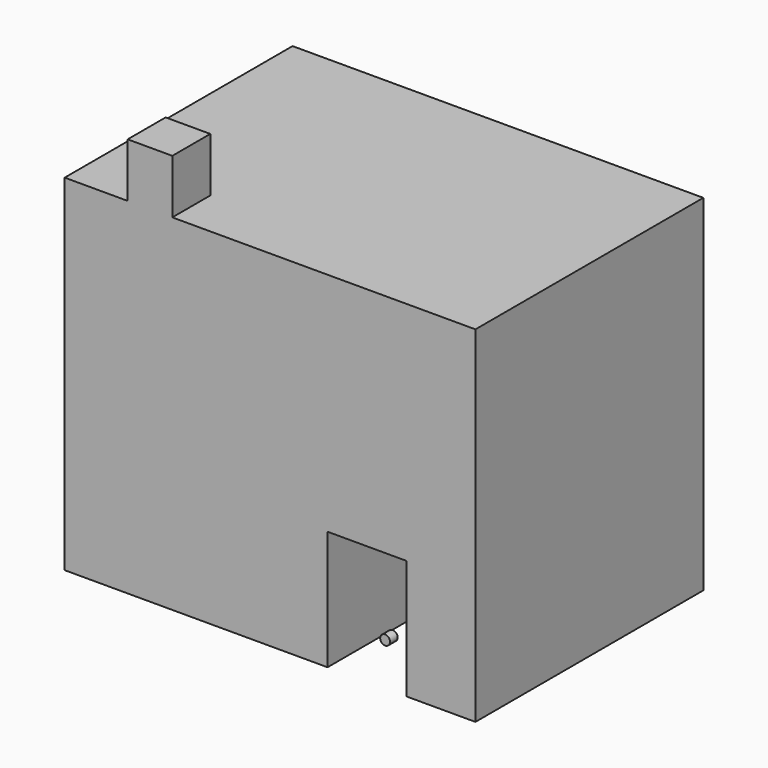
from build123d import *

# Parameters (mm, degrees)
F1_DEPTH = 76.2
F0_W     = 11.9476383552
F0_H     = 14.4938491285
F2_DEPTH = 12.7
F3_R     = 1.3138879376
F4_DEPTH = 2.54
F5_W     = 21.1531911045
F5_H     = 31.9256559014
F6_DEPTH = 25.4


with BuildPart() as f1:
    # F0 (on Front) → F1 (new body)
    with BuildSketch(Plane.XZ):
        Polygon((-40.4456928372, 42.6981188357), (-40.4456928372, -49.7491806746), (29.8690963537, -49.7491806746), (29.8690963537, -17.8235247731), (51.0222874582, -17.8235247731), (51.0222874582, -49.7491806746), (69.4333985448, -49.7491806746), (69.4333985448, 42.6981188357), (-11.6538433358, 42.6981188357), (-23.601481691, 42.6981188357), align=None)
    extrude(amount=-F1_DEPTH)

    # F0 (on Front) → F2 (join)
    with BuildSketch(Plane.XZ):
        with Locations((-17.6276625134, 49.9450433999)):
            Rectangle(F0_W, F0_H)
    extrude(amount=-F2_DEPTH)

    # F5 (on face) → F6 (join)
    with BuildSketch(Plane(origin=(0, 76.2, 0), x_dir=(-1, 0, 0), z_dir=(0, 1, 0))):
        with Locations((-40.4456919059, -33.7863527238)):
            Rectangle(F5_W, F5_H)
    extrude(amount=-F6_DEPTH)


with BuildPart() as f4:
    # F3 (on face) → F4 (new body)
    with BuildSketch(Plane.XZ):
        with Locations((47.3008938134, -36.6263650358)):
            Circle(F3_R)
    extrude(amount=F4_DEPTH)


solid = Compound([f1.part, f4.part])
